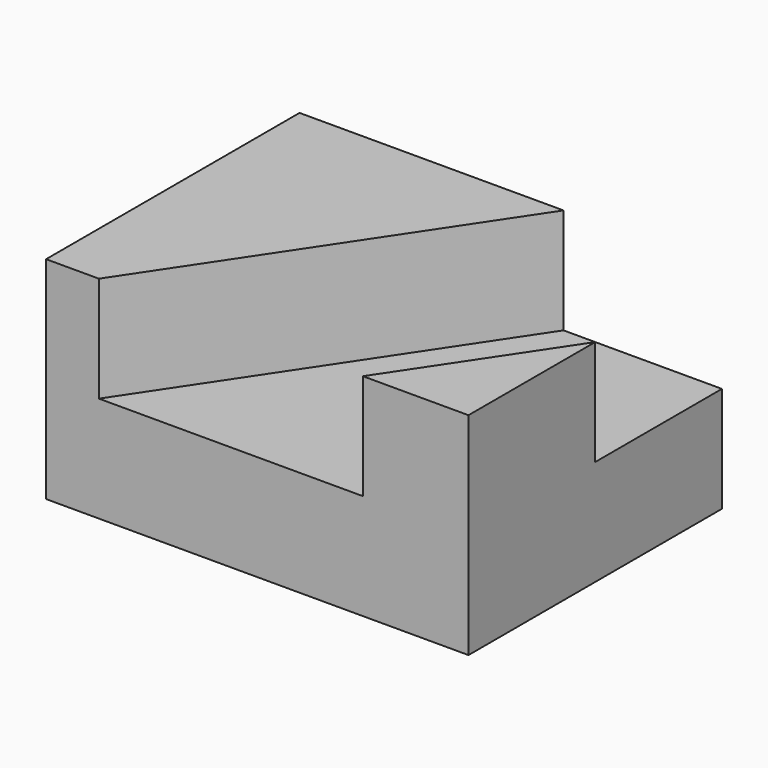
from build123d import *

# Parameters (mm, degrees)
F0_W     = 38.1
F0_H     = 25.4
F1_DEPTH = 50.8
F3_DEPTH = 12.7


with BuildPart() as f1:
    # F0 (on Right) → F1 (new body)
    with BuildSketch(Plane.YZ):
        with Locations((19.05, 12.7)):
            Rectangle(F0_W, F0_H)
    extrude(amount=F1_DEPTH)

    # F2 (on face) → F3 (cut)
    with BuildSketch(Plane.XY.offset(25.4)):
        Polygon((38.1, 0), (50.8, 19.05), (50.8, 38.1), (31.75, 38.1), (6.35, 0), align=None)
    extrude(amount=-F3_DEPTH, mode=Mode.SUBTRACT)


solid = f1.part
